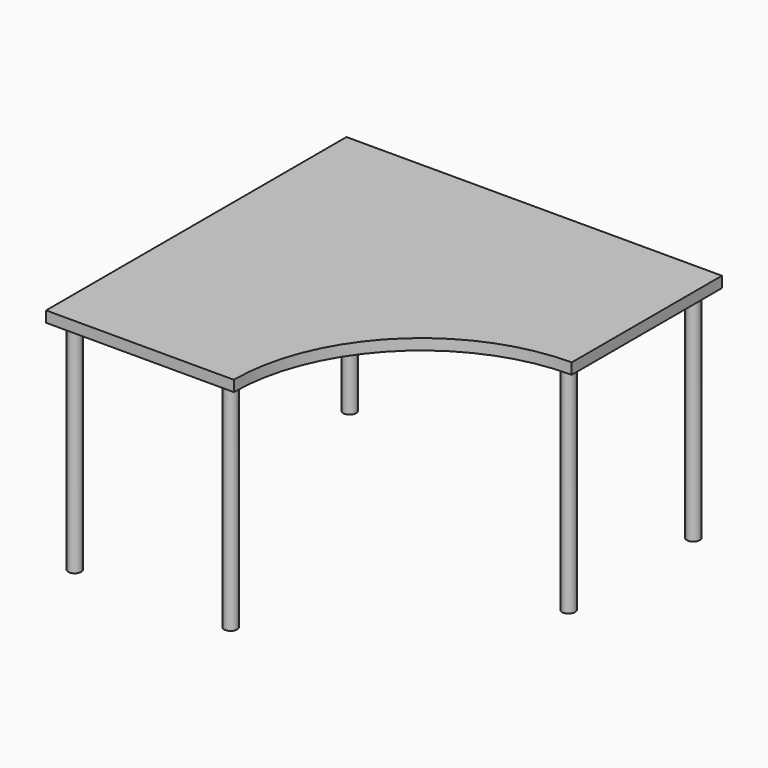
from build123d import *

# Parameters (mm, degrees)
F1_DEPTH = 34.925
F2_R     = 20.6375
F3_DEPTH = 698.5


with BuildPart() as f1:
    # F0 (on Top) → F1 (new body)
    with BuildSketch(Plane.XY):
        with BuildLine():
            Line((588.389204, 224.249657), (588.389204, 824.324657))
            Line((588.389204, 824.324657), (-611.760796, 824.324657))
            Line((-611.760796, 824.324657), (-611.760796, -375.825343))
            Line((-611.760796, -375.825343), (-11.685796, -375.825343))
            ThreePointArc((-11.685796, -375.825343), (164.072102, 48.491759), (588.389204, 224.249657))
        make_face()
    extrude(amount=F1_DEPTH)

    # F2 (on face) → F3 (join)
    with BuildSketch(Plane(origin=(0, 0, 0), x_dir=(1, 0, 0), z_dir=(0, 0, -1))):
        with Locations((-62.485796, 325.025343)):
            Circle(F2_R)
        with Locations((-560.960796, 325.025343)):
            Circle(F2_R)
        with Locations((-560.960796, -773.524657)):
            Circle(F2_R)
        with Locations((537.589204, -773.524657)):
            Circle(F2_R)
        with Locations((537.589204, -275.049657)):
            Circle(F2_R)
    extrude(amount=F3_DEPTH)


solid = f1.part
